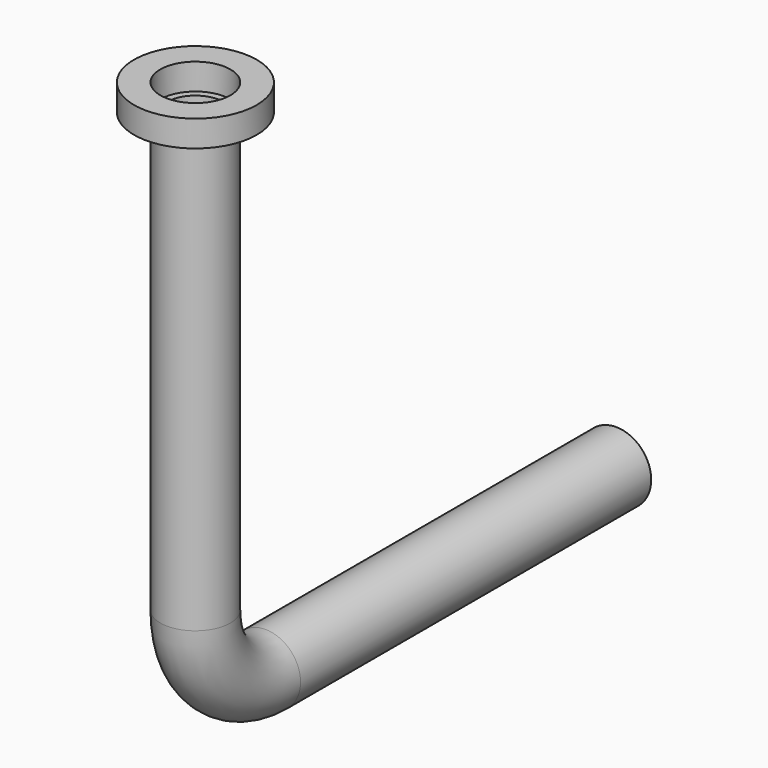
from build123d import *

# Parameters (mm, degrees)
F0_R     = 2.54
F3_R     = 4.445
F3_R_2   = 2.54
F4_DEPTH = 1.905
F5_R     = 2.0414079802


with BuildPart() as f2:
    # F2: sweep along a path in F1
    with BuildLine(Plane.YZ) as f2_path:
        Line((0, 0), (-31.75, 0))
        ThreePointArc((-31.75, 0), (-36.2401280605, 1.8598719395), (-38.1, 6.35))
        Line((-38.1, 6.35), (-38.1, 38.1))
    # F0 (on Front) → F2 (sweep)
    with BuildSketch(Plane.XZ):
        Circle(F0_R)
    sweep(path=f2_path.line)

    # F6: sweep along a path in F1
    with BuildLine(Plane.YZ) as f6_path:
        Line((0, 0), (-31.75, 0))
        ThreePointArc((-31.75, 0), (-36.2401280605, 1.8598719395), (-38.1, 6.35))
        Line((-38.1, 6.35), (-38.1, 38.1))
    # F5 (on face) → F6 (sweep, cut)
    with BuildSketch(Plane(origin=(0, 0, 0), x_dir=(-1, 0, 0), z_dir=(0, 1, 0))):
        Circle(F5_R)
    sweep(path=f6_path.line, mode=Mode.SUBTRACT)


with BuildPart() as f4:
    # F3 (on face) → F4 (new body)
    with BuildSketch(Plane.XY.offset(38.1)):
        with Locations((0, -38.1)):
            Circle(F3_R)
        with Locations((0, -38.1)):
            Circle(F3_R_2, mode=Mode.SUBTRACT)
    extrude(amount=F4_DEPTH)


solid = Compound([f2.part, f4.part])
